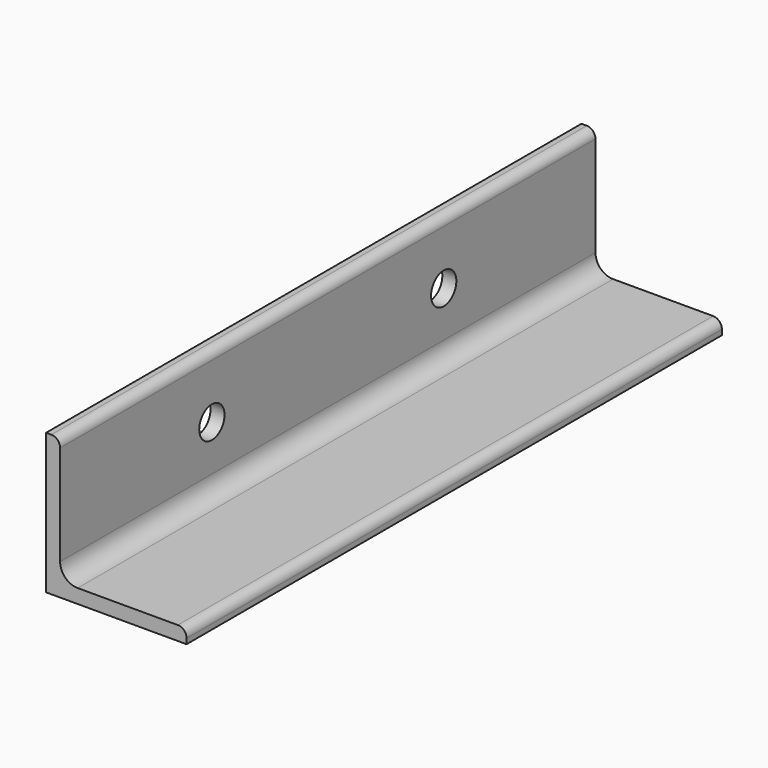
from build123d import *

# Parameters (mm, degrees)
F1_DEPTH = 381
F3_DEPTH = 8


with BuildPart() as f1:
    # F0 (on Front) → F1 (new body)
    with BuildSketch(Plane.XZ):
        with BuildLine():
            Line((-25.297998, 46.520534), (-28.297998, 46.520534))
            Line((-28.297998, 46.520534), (-28.297998, -33.479466))
            Line((-28.297998, -33.479466), (51.702002, -33.479466))
            Line((51.702002, -33.479466), (51.702002, -30.479466))
            ThreePointArc((51.702002, -30.479466), (50.237536, -26.943932), (46.702002, -25.479466))
            Line((46.702002, -25.479466), (-10.297998, -25.479466))
            ThreePointArc((-10.297998, -25.479466), (-17.369065, -22.550534), (-20.297998, -15.479466))
            Line((-20.297998, -15.479466), (-20.297998, 41.520534))
            ThreePointArc((-20.297998, 41.520534), (-21.762464, 45.056068), (-25.297998, 46.520534))
        make_face()
    extrude(amount=F1_DEPTH)

    # F2 (on face) → F3 (cut, through all)
    with BuildSketch(Plane(origin=(-28.297998, 0, 0), x_dir=(0, -1, 0), z_dir=(-1, 0, 0))):
        with BuildLine():
            ThreePointArc((117, 10.520534), (114.363961, 16.884495), (108, 19.520534))
            ThreePointArc((108, 19.520534), (101.636039, 4.156573), (117, 10.520534))
        make_face()
        with BuildLine():
            ThreePointArc((282, 10.520534), (279.363961, 16.884495), (273, 19.520534))
            ThreePointArc((273, 19.520534), (266.636039, 4.156573), (282, 10.520534))
        make_face()
    extrude(amount=-F3_DEPTH, mode=Mode.SUBTRACT)


solid = f1.part
